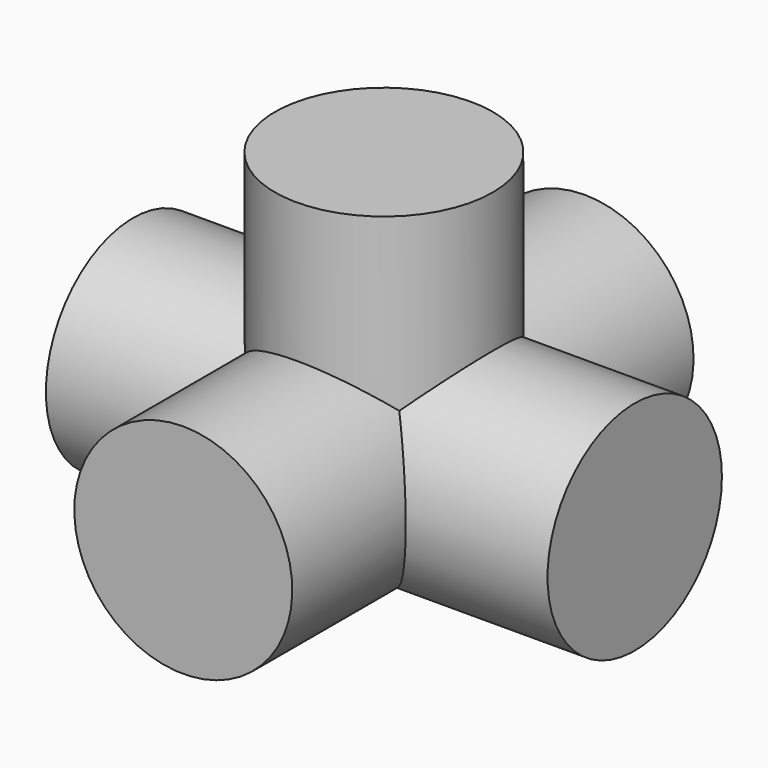
from build123d import *

# Parameters (mm, degrees)
CYLINDER035_R             = 13.9827
CYLINDER035_DEPTH         = 64.36
CYLINDER036_R             = 13.9827
CYLINDER036_DEPTH         = 64.36
CYLINDER037_R             = 13.9827
CYLINDER037_DEPTH         = 31.877
FUSION015_PLACEMENT_ANGLE = 90


with BuildPart() as cylinder035:
    # Cylinder035 → Cylinder035 (new body)
    with BuildSketch(Plane(origin=(0, 0, -32.18), x_dir=(0, 1, 0), z_dir=(0, 0, 1))):
        Circle(CYLINDER035_R)
    extrude(amount=CYLINDER035_DEPTH)


with BuildPart() as cylinder036:
    # Cylinder036 → Cylinder036 (new body)
    with BuildSketch(Plane.XZ.offset(-32.1818)):
        Circle(CYLINDER036_R)
    extrude(amount=CYLINDER036_DEPTH)


with BuildPart() as f_5_way001:
    # Cylinder037 → Cylinder037 (new body)
    with BuildSketch(Plane(origin=(0, 0, 0), x_dir=(0, 0, -1), z_dir=(1, 0, 0))):
        Circle(CYLINDER037_R)
    extrude(amount=CYLINDER037_DEPTH)

    # Fusion015: union Cylinder035, Cylinder036
    add(cylinder035.part)
    add(cylinder036.part)


with BuildPart() as f_5_way001_1:
    # Fusion015 placement: moved
    add(f_5_way001.part.moved(Location((0, -50.3, -18))).rotate(Axis((0, -50.3, -18), (0, -1, 0)), FUSION015_PLACEMENT_ANGLE))


solid = f_5_way001_1.part
